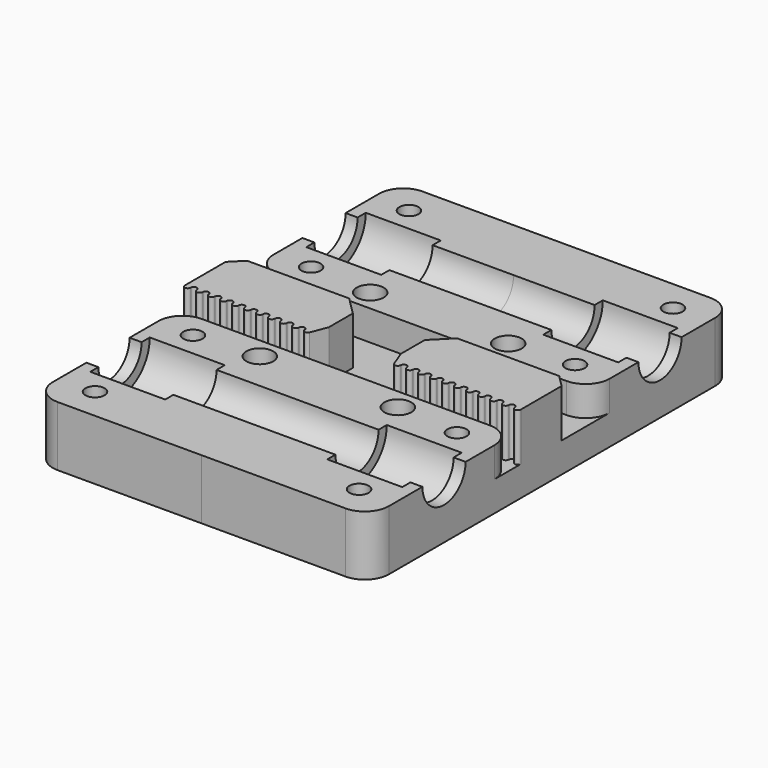
from build123d import *

# Parameters (mm, degrees)
BOX_W           = 28
BOX_H           = 38
BOX_DEPTH       = 10
POCKET_DEPTH    = 14.5
PAD_DEPTH       = 2
SKETCH002_R     = 4.5
POCKET001_DEPTH = 28.001
SKETCH003_R     = 2.25
SKETCH003_R_2   = 1.6
POCKET002_DEPTH = 10.001
SKETCH004_R     = 2.9
POCKET003_DEPTH = 3.5
SKETCH005_W     = 6
SKETCH005_H     = 4
POCKET004_DEPTH = 5
SKETCH006_W     = 28
SKETCH006_H     = 4
POCKET005_DEPTH = 5
SKETCH007_W     = 22
SKETCH007_H     = 4
PAD001_DEPTH    = 3
PAD002_DEPTH    = 8
CHAMFER_SIZE    = 2
CHAMFER001_SIZE = 3
FILLET_R        = 4
FILLET001_R     = 4
FILLET002_R     = 4
FILLET003_R     = 4


with BuildPart() as pad001:
    # Box → Box (new body)
    with BuildSketch(Plane.XY):
        with Locations((14, 19)):
            Rectangle(BOX_W, BOX_H)
    extrude(amount=BOX_DEPTH)

    # Sketch → Pocket (cut)
    with BuildSketch(Plane.YZ.offset(28)):
        with BuildLine():
            ThreePointArc((16.3, 10), (22.5, 3.8), (28.7, 10))
            Line((16.3, 10), (28.7, 10))
        make_face()
    extrude(amount=-POCKET_DEPTH, mode=Mode.SUBTRACT)

    # Sketch001 → Pad (new body)
    with BuildSketch(Plane.YZ.offset(28)):
        with BuildLine():
            Line((16.3, 10), (28.7, 10))
            ThreePointArc((16.3, 10), (22.5, 3.8), (28.7, 10))
        make_face()
    extrude(amount=-PAD_DEPTH)

    # Sketch002 → Pocket001 (cut, through all)
    with BuildSketch(Plane.YZ.offset(28)):
        with Locations((22.5, 10)):
            Circle(SKETCH002_R)
    extrude(amount=-POCKET001_DEPTH, mode=Mode.SUBTRACT)

    # Sketch003 → Pocket002 (cut, through all)
    with BuildSketch(Plane.XY.offset(10)):
        with Locations((11.5, 11.5)):
            Circle(SKETCH003_R)
        with Locations((22, 12.3)):
            Circle(SKETCH003_R_2)
        with Locations((22, 32.7)):
            Circle(SKETCH003_R_2)
    extrude(amount=-POCKET002_DEPTH, mode=Mode.SUBTRACT)

    # Sketch004 → Pocket003 (cut)
    with BuildSketch(Plane(origin=(0, 0, 0), x_dir=(1, 0, 0), z_dir=(0, 0, -1))):
        with Locations((22, -32.7)):
            Circle(SKETCH004_R)
        with Locations((22, -12.3)):
            Circle(SKETCH004_R)
    extrude(amount=-POCKET003_DEPTH, mode=Mode.SUBTRACT)

    # Sketch005 → Pocket004 (cut)
    with BuildSketch(Plane.XY.offset(10)):
        with Locations((3, 2)):
            Rectangle(SKETCH005_W, SKETCH005_H)
    extrude(amount=-POCKET004_DEPTH, mode=Mode.SUBTRACT)

    # Sketch006 → Pocket005 (cut)
    with BuildSketch(Plane.XY.offset(10)):
        with Locations((14, 6)):
            Rectangle(SKETCH006_W, SKETCH006_H)
    extrude(amount=-POCKET005_DEPTH, mode=Mode.SUBTRACT)

    # Sketch007 → Pad001 (new body)
    with BuildSketch(Plane.XY.offset(10)):
        with Locations((17, 2)):
            Rectangle(SKETCH007_W, SKETCH007_H)
    extrude(amount=PAD001_DEPTH)


with BuildPart() as part_mirroring:
    # Part__Mirroring: instance of Pad001
    add(pad001.part.mirror(Plane(origin=(0, 0, 0), x_dir=(1, 0, 0), z_dir=(0, 1, 0))))


with BuildPart() as fillet003:
    # Fusion base: copy of Pad001
    add(pad001.part)

    # Fusion: union Part__Mirroring
    add(part_mirroring.part)

    # Sketch008 → Pad002 (new body)
    with BuildSketch(Plane.XY.offset(13)):
        with BuildLine():
            ThreePointArc((27, -6.5), (27.5, -7), (28, -6.5))
            Line((28, -4), (28, -6.5))
            Line((6, -4), (28, -4))
            Line((6, -4), (7.03349, -6.679913))
            ThreePointArc((7.03349, -6.679913), (7.591502, -6.991556), (8, -6.5))
            ThreePointArc((9, -6.5), (8.5, -6), (8, -6.5))
            ThreePointArc((9, -6.5), (9.5, -7), (10, -6.5))
            ThreePointArc((11, -6.5), (10.5, -6), (10, -6.5))
            ThreePointArc((11, -6.5), (11.5, -7), (12, -6.5))
            ThreePointArc((13, -6.5), (12.5, -6), (12, -6.5))
            ThreePointArc((13, -6.5), (13.5, -7), (14, -6.5))
            ThreePointArc((15, -6.5), (14.5, -6), (14, -6.5))
            ThreePointArc((15, -6.5), (15.5, -7), (16, -6.5))
            ThreePointArc((17, -6.5), (16.5, -6), (16, -6.5))
            ThreePointArc((17, -6.5), (17.5, -7), (18, -6.5))
            ThreePointArc((19, -6.5), (18.5, -6), (18, -6.5))
            ThreePointArc((19, -6.5), (19.5, -7), (20, -6.5))
            ThreePointArc((21, -6.5), (20.5, -6), (20, -6.5))
            ThreePointArc((21, -6.5), (21.5, -7), (22, -6.5))
            ThreePointArc((23, -6.5), (22.5, -6), (22, -6.5))
            ThreePointArc((23, -6.5), (23.5, -7), (24, -6.5))
            ThreePointArc((25, -6.5), (24.5, -6), (24, -6.5))
            ThreePointArc((25, -6.5), (25.5, -7), (26, -6.5))
            ThreePointArc((27, -6.5), (26.5, -6), (26, -6.5))
        make_face()
    extrude(amount=-PAD002_DEPTH)

    # Chamfer
    chamfer_edges = [fillet003.edges().sort_by_distance(p)[0] for p in [
        (28, 4, 7.5),
    ]]
    chamfer(chamfer_edges, length=CHAMFER_SIZE)

    # Chamfer001
    chamfer001_edges = [fillet003.edges().sort_by_distance(p)[0] for p in [
        (6, 4, 7.5),
    ]]
    chamfer(chamfer001_edges, length=CHAMFER001_SIZE)

    # Fillet
    fillet_edges = [fillet003.edges().sort_by_distance(p)[0] for p in [
        (28, 38, 5),
    ]]
    fillet(fillet_edges, radius=FILLET_R)

    # Fillet001
    fillet001_edges = [fillet003.edges().sort_by_distance(p)[0] for p in [
        (28, 8, 7.5),
    ]]
    fillet(fillet001_edges, radius=FILLET001_R)

    # Fillet002
    fillet002_edges = [fillet003.edges().sort_by_distance(p)[0] for p in [
        (28, -38, 5),
    ]]
    fillet(fillet002_edges, radius=FILLET002_R)

    # Fillet003
    fillet003_edges = [fillet003.edges().sort_by_distance(p)[0] for p in [
        (28, -8, 7.5),
    ]]
    fillet(fillet003_edges, radius=FILLET003_R)


with BuildPart() as part_mirroring001:
    # Part__Mirroring001: instance of Fillet003
    add(fillet003.part.mirror(Plane(origin=(0, 0, 0), x_dir=(0, -1, 0), z_dir=(1, 0, 0))))


with BuildPart() as fusion001:
    # Fusion001 base: copy of Fillet003
    add(fillet003.part)

    # Fusion001: union Part__Mirroring001
    add(part_mirroring001.part)


solid = fusion001.part
